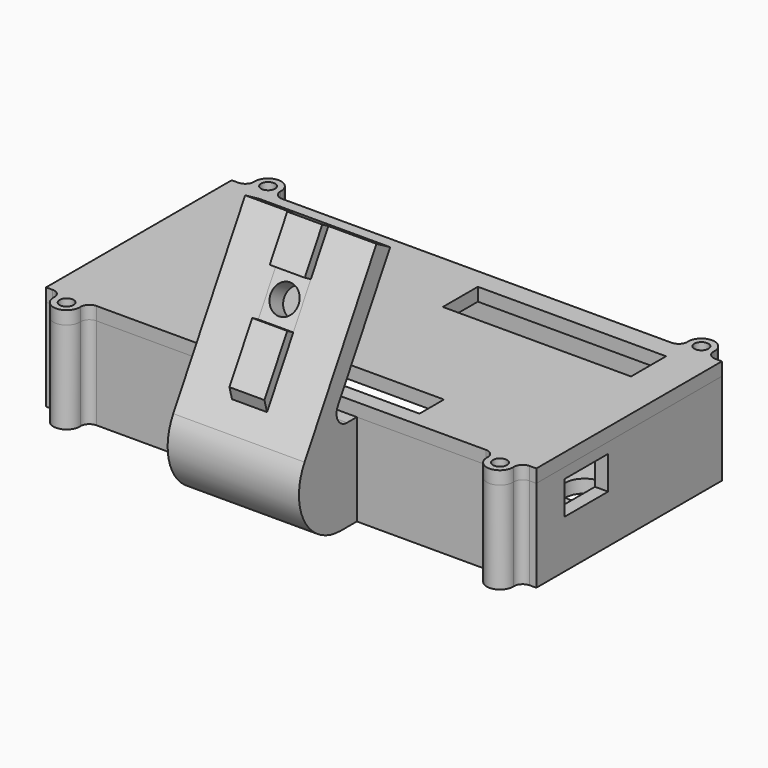
from build123d import *

# Parameters (mm, degrees)
SKETCH_W        = 112
SKETCH_H        = 53
PAD_DEPTH       = 21
SKETCH001_W     = 106
SKETCH001_H     = 47
POCKET_DEPTH    = 18
SKETCH002_R     = 2.5
PAD001_DEPTH    = 6.4
SKETCH003_R     = 1.3
POCKET001_DEPTH = 8
SKETCH005_R     = 1.8
SKETCH005_R_2   = 4.5
SKETCH005_W     = 61.22
SKETCH005_H     = 44
POCKET002_DEPTH = 5
SKETCH006_W     = 12.5
SKETCH006_H     = 7.6
POCKET003_DEPTH = 5
SKETCH007_W     = 26.75
SKETCH007_H     = 2.8
POCKET004_DEPTH = 5
SKETCH008_W     = 65.22
SKETCH008_H     = 48
SKETCH008_W_2   = 52.62
SKETCH008_H_2   = 41.4
PAD002_DEPTH    = 4.5
CHAMFER_SIZE    = 3
SKETCH009_R     = 3
PAD003_DEPTH    = 21
FILLET_R        = 2
SKETCH010_R     = 1.3
POCKET005_DEPTH = 10
PAD004_DEPTH    = 15
FILLET001_R     = 12
FILLET002_R     = 3
SKETCH012_W     = 8
SKETCH012_H     = 35
PAD005_DEPTH    = 2
SKETCH013_W     = 8
SKETCH013_H     = 10
POCKET006_DEPTH = 2
CHAMFER001_SIZE = 1.99
SKETCH014_R     = 3.2
POCKET007_DEPTH = 5
SKETCH015_W     = 112
SKETCH015_H     = 53
PAD006_DEPTH    = 3
SKETCH016_R     = 3
PAD007_DEPTH    = 3
FILLET003_R     = 2
SKETCH017_R     = 1.6
POCKET008_DEPTH = 5
SKETCH018_W     = 43
SKETCH018_H     = 10
SKETCH018_W_2   = 29
SKETCH018_H_2   = 7
POCKET009_DEPTH = 5


with BuildPart() as box:
    # Sketch → Pad (new body)
    with BuildSketch(Plane.XY):
        Rectangle(SKETCH_W, SKETCH_H)
    extrude(amount=PAD_DEPTH)

    # Sketch001 (on Face6 of Pad) → Pocket (cut)
    with BuildSketch(Plane.XY.offset(21)):
        Rectangle(SKETCH001_W, SKETCH001_H)
    extrude(amount=-POCKET_DEPTH, mode=Mode.SUBTRACT)

    # Sketch002 (on Face11 of Pocket) → Pad001 (join)
    with BuildSketch(Plane.XY.offset(3)):
        with Locations((-50.04, 20.575)):
            Circle(SKETCH002_R)
        with Locations((50.04, 20.575)):
            Circle(SKETCH002_R)
        with Locations((-50.04, -20.575)):
            Circle(SKETCH002_R)
        with Locations((50.04, -20.575)):
            Circle(SKETCH002_R)
    extrude(amount=PAD001_DEPTH)

    # Sketch003 (on Face18 of Pad001) → Pocket001 (cut)
    with BuildSketch(Plane.XY.offset(9.4)):
        with Locations((-50.04, 20.575)):
            Circle(SKETCH003_R)
        with Locations((-50.04, -20.575)):
            Circle(SKETCH003_R)
        with Locations((50.04, -20.575)):
            Circle(SKETCH003_R)
        with Locations((50.04, 20.575)):
            Circle(SKETCH003_R)
    extrude(amount=-POCKET001_DEPTH, mode=Mode.SUBTRACT)

    # Sketch005 (on Face4 of Pocket001) → Pocket002 (cut)
    with BuildSketch(Plane(origin=(0, 0, 0), x_dir=(1, 0, 0), z_dir=(0, 0, -1))):
        with Locations((39.04, -19.31)):
            Circle(SKETCH005_R)
        with Locations((42.78, -3.8)):
            Circle(SKETCH005_R_2)
        with Locations((-0.79, 0.6)):
            Rectangle(SKETCH005_W, SKETCH005_H)
    extrude(amount=-POCKET002_DEPTH, mode=Mode.SUBTRACT)

    # Sketch006 (on Face14 of Pocket002) → Pocket003 (cut)
    with BuildSketch(Plane(origin=(53, 0, 0), x_dir=(0, -1, 0), z_dir=(-1, 0, 0))):
        with Locations((12.25, 14.8)):
            Rectangle(SKETCH006_W, SKETCH006_H)
    extrude(amount=-POCKET003_DEPTH, mode=Mode.SUBTRACT)

    # Sketch007 (on Face20 of Pocket003) → Pocket004 (cut)
    with BuildSketch(Plane.YZ.offset(-53)):
        with Locations((1.025, 12.4)):
            Rectangle(SKETCH007_W, SKETCH007_H)
    extrude(amount=-POCKET004_DEPTH, mode=Mode.SUBTRACT)

    # Sketch008 (on Face4 of Pocket004) → Pad002 (join)
    with BuildSketch(Plane(origin=(0, 0, 0), x_dir=(1, 0, 0), z_dir=(0, 0, -1))):
        with Locations((-0.79, 0.6)):
            Rectangle(SKETCH008_W, SKETCH008_H)
        with Locations((-3.49, 0.6)):
            Rectangle(SKETCH008_W_2, SKETCH008_H_2, mode=Mode.SUBTRACT)
    extrude(amount=-PAD002_DEPTH)

    # Chamfer
    chamfer_edges = [box.edges().sort_by_distance(p)[0] for p in [
        (-3.49, -21.3, 0),
        (-29.8, -0.6, 0),
        (22.82, -0.6, 0),
        (-3.49, 20.1, 0),
    ]]
    chamfer(chamfer_edges, length=CHAMFER_SIZE)

    # Sketch009 (on Face8 of Chamfer) → Pad003 (join)
    with BuildSketch(Plane(origin=(0, 0, 0), x_dir=(1, 0, 0), z_dir=(0, 0, -1))):
        with Locations((-49.5, 28.766462)):
            Circle(SKETCH009_R)
        with Locations((49.5, 28.766462)):
            Circle(SKETCH009_R)
        with Locations((-49.5, -28.766462)):
            Circle(SKETCH009_R)
        with Locations((49.5, -28.766462)):
            Circle(SKETCH009_R)
    extrude(amount=-PAD003_DEPTH)

    # Fillet
    fillet_edges = [box.edges().sort_by_distance(p)[0] for p in [
        (51.46549, 26.5, 10.5),
        (51.46549, -26.5, 10.5),
        (-47.53451, -26.5, 10.5),
        (-47.53451, 26.5, 10.5),
        (47.53451, 26.5, 10.5),
        (-51.46549, -26.5, 10.5),
        (47.53451, -26.5, 10.5),
        (-51.46549, 26.5, 10.5),
    ]]
    fillet(fillet_edges, radius=FILLET_R)

    # Sketch010 (on Face5 of Fillet) → Pocket005 (cut)
    with BuildSketch(Plane.XY.offset(21)):
        with Locations((-49.5, 28.766462)):
            Circle(SKETCH010_R)
        with Locations((49.5, 28.766462)):
            Circle(SKETCH010_R)
        with Locations((-49.5, -28.766462)):
            Circle(SKETCH010_R)
        with Locations((49.5, -28.766462)):
            Circle(SKETCH010_R)
    extrude(amount=-POCKET005_DEPTH, mode=Mode.SUBTRACT)

    # Sketch011 → Pad004 (join, symmetric)
    with BuildSketch(Plane.YZ):
        Polygon((-26.5, 0), (-51.820508, 0), (-20.897114, 53.560889), (-17, 51.310889), (-34.5, 21), (-26.5, 21), align=None)
    extrude(amount=PAD004_DEPTH, both=True)

    # Fillet001
    fillet001_edges = [box.edges().sort_by_distance(p)[0] for p in [
        (0, -51.820508, 0),
    ]]
    fillet(fillet001_edges, radius=FILLET001_R)

    # Fillet002
    fillet002_edges = [box.edges().sort_by_distance(p)[0] for p in [
        (0, -34.5, 21),
    ]]
    fillet(fillet002_edges, radius=FILLET002_R)

    # Sketch012 (on Face9 of Fillet002) → Pad005 (join)
    with BuildSketch(Plane(origin=(0, -38.865381, 22.438938), x_dir=(1, 0, 0), z_dir=(0, -0.866025, 0.5))):
        with Locations((0, 18.436533)):
            Rectangle(SKETCH012_W, SKETCH012_H)
    extrude(amount=PAD005_DEPTH)

    # Sketch013 (on Face51 of Pad005) → Pocket006 (cut)
    with BuildSketch(Plane(origin=(0, -40.597432, 23.438938), x_dir=(1, 0, 0), z_dir=(0, -0.866025, 0.5))):
        with Locations((0, 20.936533)):
            Rectangle(SKETCH013_W, SKETCH013_H)
    extrude(amount=-POCKET006_DEPTH, mode=Mode.SUBTRACT)

    # Chamfer001
    chamfer001_edges = [box.edges().sort_by_distance(p)[0] for p in [
        (0, -40.129165, 24.25),
    ]]
    chamfer(chamfer001_edges, length=CHAMFER001_SIZE)

    # Sketch014 (on Face6 of Chamfer001) → Pocket007 (cut)
    with BuildSketch(Plane(origin=(0, -38.865381, 22.438938), x_dir=(1, 0, 0), z_dir=(0, -0.866025, 0.5))):
        with Locations((0, 20.936533)):
            Circle(SKETCH014_R)
    extrude(amount=-POCKET007_DEPTH, mode=Mode.SUBTRACT)


with BuildPart() as lid:
    # Sketch015 (on Face1 of ShapeBinder) → Pad006 (new body)
    with BuildSketch(Plane.XY.offset(21)):
        Rectangle(SKETCH015_W, SKETCH015_H)
    extrude(amount=PAD006_DEPTH)

    # Sketch016 (on Face1 of ShapeBinder) → Pad007 (join)
    with BuildSketch(Plane.XY.offset(21)):
        with Locations((-49.5, 28.766462)):
            Circle(SKETCH016_R)
        with Locations((49.5, 28.766462)):
            Circle(SKETCH016_R)
        with Locations((49.5, -28.766462)):
            Circle(SKETCH016_R)
        with Locations((-49.5, -28.766462)):
            Circle(SKETCH016_R)
    extrude(amount=PAD007_DEPTH)

    # Fillet003
    fillet003_edges = [lid.edges().sort_by_distance(p)[0] for p in [
        (-47.53451, 26.5, 22.5),
        (51.46549, 26.5, 22.5),
        (51.46549, -26.5, 22.5),
        (-47.53451, -26.5, 22.5),
        (47.53451, 26.5, 22.5),
        (47.53451, -26.5, 22.5),
        (-51.46549, -26.5, 22.5),
        (-51.46549, 26.5, 22.5),
    ]]
    fillet(fillet003_edges, radius=FILLET003_R)

    # Sketch017 (on Face5 of Fillet003) → Pocket008 (cut)
    with BuildSketch(Plane.XY.offset(24)):
        with Locations((-49.5, 28.766462)):
            Circle(SKETCH017_R)
        with Locations((49.5, 28.766462)):
            Circle(SKETCH017_R)
        with Locations((49.5, -28.766462)):
            Circle(SKETCH017_R)
        with Locations((-49.5, -28.766462)):
            Circle(SKETCH017_R)
    extrude(amount=-POCKET008_DEPTH, mode=Mode.SUBTRACT)

    # Sketch018 (on Face5 of Pocket008) → Pocket009 (cut)
    with BuildSketch(Plane.XY.offset(24)):
        with Locations((25.5, 16.8)):
            Rectangle(SKETCH018_W, SKETCH018_H)
        with Locations((12, -19.5)):
            Rectangle(SKETCH018_W_2, SKETCH018_H_2)
    extrude(amount=-POCKET009_DEPTH, mode=Mode.SUBTRACT)


solid = Compound([box.part, lid.part])
